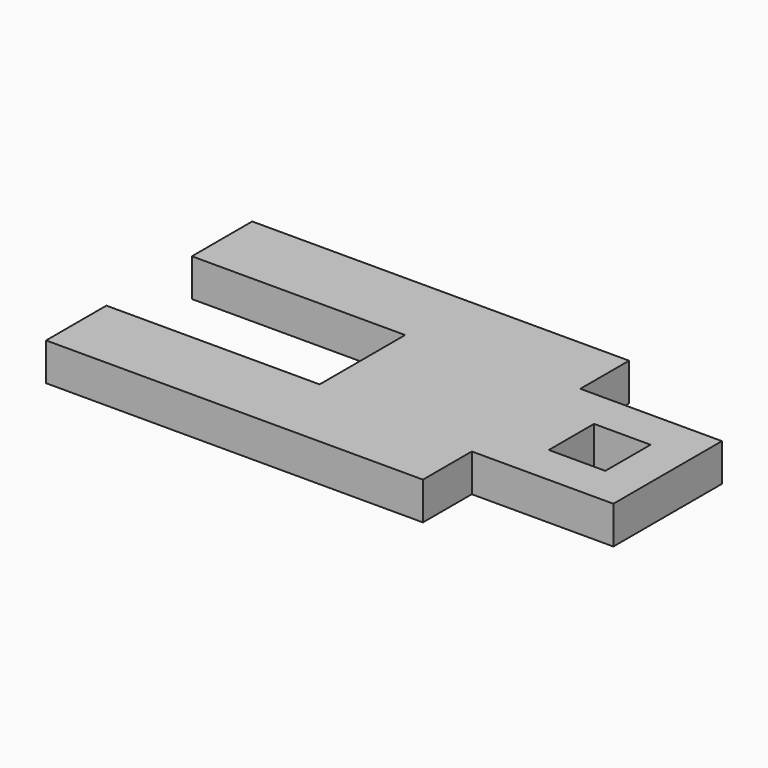
from build123d import *

# Parameters (mm, degrees)
F0_W     = 9.525
F0_H     = 9.525
F1_DEPTH = 6.35


with BuildPart() as f1:
    # F0 (on Top) → F1 (new body)
    with BuildSketch(Plane.XY):
        Polygon((-62.329142, 26.4668), (-62.329142, 13.7668), (-26.399102, 13.7668), (-26.399102, -4.2418), (-62.329142, -4.2418), (-62.329142, -16.9418), (1.170858, -16.9418), (1.170858, -6.6548), (25.026775, -6.6548), (25.026775, 16.2052), (1.170858, 16.2052), (1.170858, 26.4668), align=None)
        with Locations((13.584075, 4.7625)):
            Rectangle(F0_W, F0_H, mode=Mode.SUBTRACT)
    extrude(amount=F1_DEPTH)


solid = f1.part
